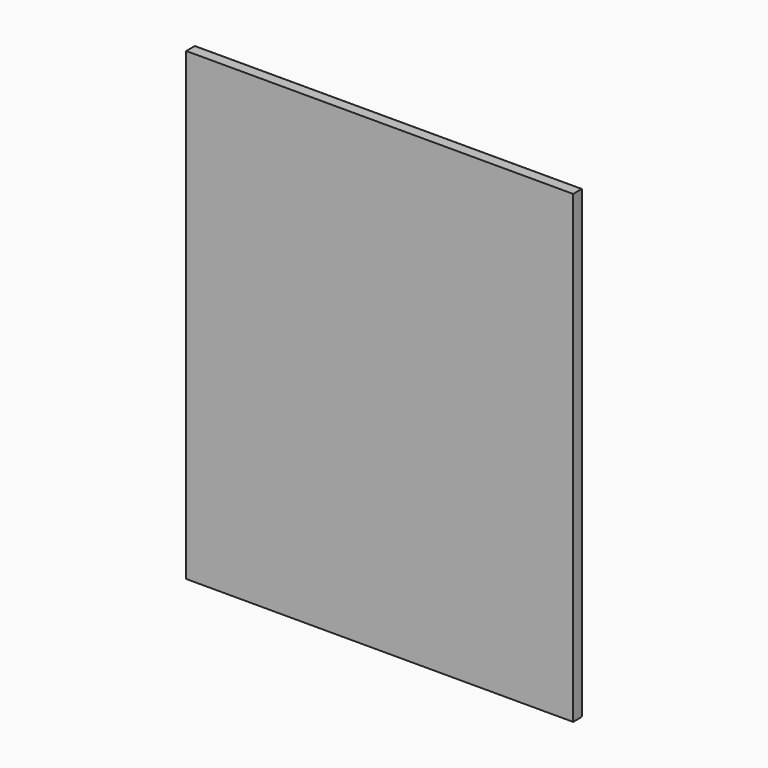
from build123d import *

# Parameters (mm, degrees)
F0_W     = 39.6928340197
F0_H     = 31.0325622559
F1_DEPTH = 18
F2_DEPTH = 716
F3_DEPTH = 596
F4_R     = 2


with BuildPart() as f1:
    # F0 (on Front) → F1 (new body)
    with BuildSketch(Plane.XZ):
        with Locations((-19.8464170098, 15.5162811279)):
            Rectangle(F0_W, F0_H)
    extrude(amount=-F1_DEPTH)

    # F2 (add): a face of the model
    f2_faces = [f1.faces().sort_by_distance(p)[0] for p in [
        (-19.8464170098, 9, 0),
    ]]
    extrude(f2_faces, amount=-F2_DEPTH)

    # F3 (add): a face of the model
    f3_faces = [f1.faces().sort_by_distance(p)[0] for p in [
        (0, 9, 358),
    ]]
    extrude(f3_faces, amount=-F3_DEPTH)

    # F4
    f4_edges = [f1.edges().sort_by_distance(p)[0] for p in [
        (0, 18, 358),
        (-298, 18, 716),
        (-596, 18, 358),
        (-298, 18, 0),
    ]]
    fillet(f4_edges, radius=F4_R)


solid = f1.part
